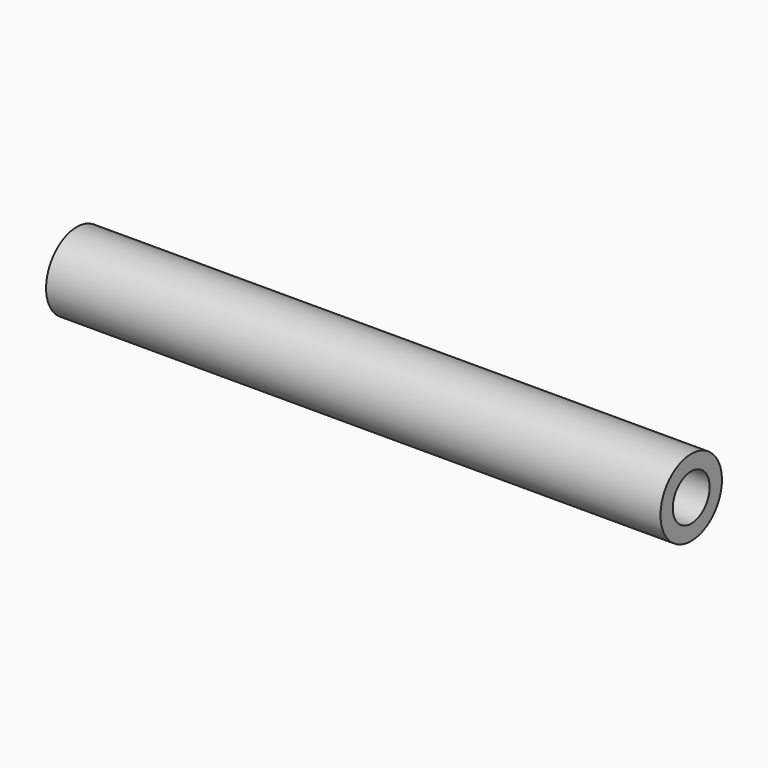
from build123d import *

# Parameters (mm, degrees)
CYLINDER005_R           = 1.5
CYLINDER005_DEPTH       = 44
CYLINDER005_PITCH_ANGLE = 90
CYLINDER004_R           = 2.5
CYLINDER004_DEPTH       = 40
CYLINDER004_PITCH_ANGLE = 90


with BuildPart() as cilindro005:
    # Cylinder005 → Cylinder005 (new body)
    with BuildSketch(Plane.XY):
        Circle(CYLINDER005_R)
    extrude(amount=CYLINDER005_DEPTH)


with BuildPart() as cilindro005_1:
    # Cylinder005 pitch: moved
    add(cilindro005.part.rotate(Axis((0, 0, 0), (0, 1, 0)), CYLINDER005_PITCH_ANGLE))


with BuildPart() as cilindro005_2:
    # Cylinder005 placement: moved
    add(cilindro005_1.part.moved(Location((-2, 0, 0))))


with BuildPart() as soporte3:
    # Cylinder004 → Cylinder004 (new body)
    with BuildSketch(Plane.XY):
        Circle(CYLINDER004_R)
    extrude(amount=CYLINDER004_DEPTH)


with BuildPart() as soporte3_1:
    # Cylinder004 pitch: moved
    add(soporte3.part.rotate(Axis((0, 0, 0), (0, 1, 0)), CYLINDER004_PITCH_ANGLE))


with BuildPart() as soporte3_2:
    # Cylinder004 placement: moved
    add(soporte3_1.part)

    # Cut002: cut Cilindro005
    add(cilindro005_2.part, mode=Mode.SUBTRACT)


with BuildPart() as soporte3_3:
    # Cut002 placement: moved
    add(soporte3_2.part.moved(Location((235, 175.5, 260))))


solid = soporte3_3.part
